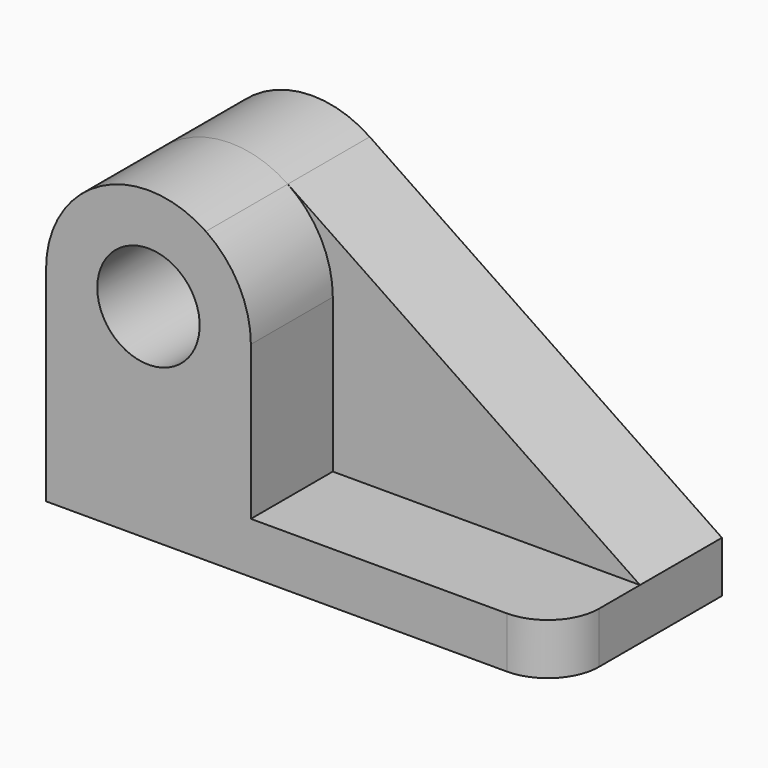
from build123d import *

# Parameters (mm, degrees)
F0_R     = 12.7
F1_DEPTH = 25.4
F3_DEPTH = 25.4
F4_DEPTH = 25.4
F5_R     = 12.7


with BuildPart() as f1:
    # F0 (on Front) → F1 (new body)
    with BuildSketch(Plane.XZ):
        with BuildLine():
            Line((60.523228, -42.777247), (-26.838899, 16.357082))
            ThreePointArc((-26.838899, 16.357082), (-52.983031, 17.759353), (-66.476772, -4.677247))
            Line((-66.476772, -4.677247), (-66.476772, -55.477247))
            Line((-66.476772, -55.477247), (60.523228, -55.477247))
            Line((60.523228, -55.477247), (60.523228, -42.777247))
        make_face()
        with Locations((-41.076772, -4.677247)):
            Circle(F0_R, mode=Mode.SUBTRACT)
    extrude(amount=F1_DEPTH)

    # F2 (on face) → F3 (join)
    with BuildSketch(Plane.XZ.offset(25.4)):
        with BuildLine():
            Line((-15.676772, -4.677247), (-28.376772, -4.677247))
            ThreePointArc((-28.376772, -4.677247), (-41.076772, -17.377247), (-53.776772, -4.677247))
            Line((-53.776772, -4.677247), (-66.476772, -4.677247))
            ThreePointArc((-66.476772, -4.677247), (-41.076772, -30.077247), (-15.676772, -4.677247))
        make_face()
        with BuildLine():
            ThreePointArc((-53.776772, -4.677247), (-41.076772, 8.022753), (-28.376772, -4.677247))
            Line((-28.376772, -4.677247), (-15.676772, -4.677247))
            ThreePointArc((-15.676772, -4.677247), (-41.076772, 20.722753), (-66.476772, -4.677247))
            Line((-66.476772, -4.677247), (-53.776772, -4.677247))
        make_face()
    extrude(amount=F3_DEPTH)

    # F2 (on face) → F4 (join)
    with BuildSketch(Plane.XZ.offset(25.4)):
        with BuildLine():
            Line((-15.676772, -4.677247), (-28.376772, -4.677247))
            ThreePointArc((-28.376772, -4.677247), (-41.076772, -17.377247), (-53.776772, -4.677247))
            Line((-53.776772, -4.677247), (-66.476772, -4.677247))
            ThreePointArc((-66.476772, -4.677247), (-41.076772, -30.077247), (-15.676772, -4.677247))
        make_face()
        with BuildLine():
            ThreePointArc((-53.776772, -4.677247), (-41.076772, 8.022753), (-28.376772, -4.677247))
            Line((-28.376772, -4.677247), (-15.676772, -4.677247))
            ThreePointArc((-15.676772, -4.677247), (-18.640173, 7.229013), (-26.838899, 16.357082))
            ThreePointArc((-26.838899, 16.357082), (-52.983031, 17.759353), (-66.476772, -4.677247))
            Line((-66.476772, -4.677247), (-53.776772, -4.677247))
        make_face()
        with BuildLine():
            Line((-15.676772, -42.777247), (-15.676772, -4.677247))
            ThreePointArc((-15.676772, -4.677247), (-41.076772, -30.077247), (-66.476772, -4.677247))
            Line((-66.476772, -4.677247), (-66.476772, -42.777247))
            Line((-66.476772, -42.777247), (-66.476772, -55.477247))
            Line((-66.476772, -55.477247), (60.523228, -55.477247))
            Line((60.523228, -55.477247), (60.523228, -42.777247))
            Line((60.523228, -42.777247), (-15.676772, -42.777247))
        make_face()
    extrude(amount=F4_DEPTH)

    # F5
    f5_edges = [f1.edges().sort_by_distance(p)[0] for p in [
        (60.523228, -50.8, -49.127247),
    ]]
    fillet(f5_edges, radius=F5_R)


solid = f1.part
